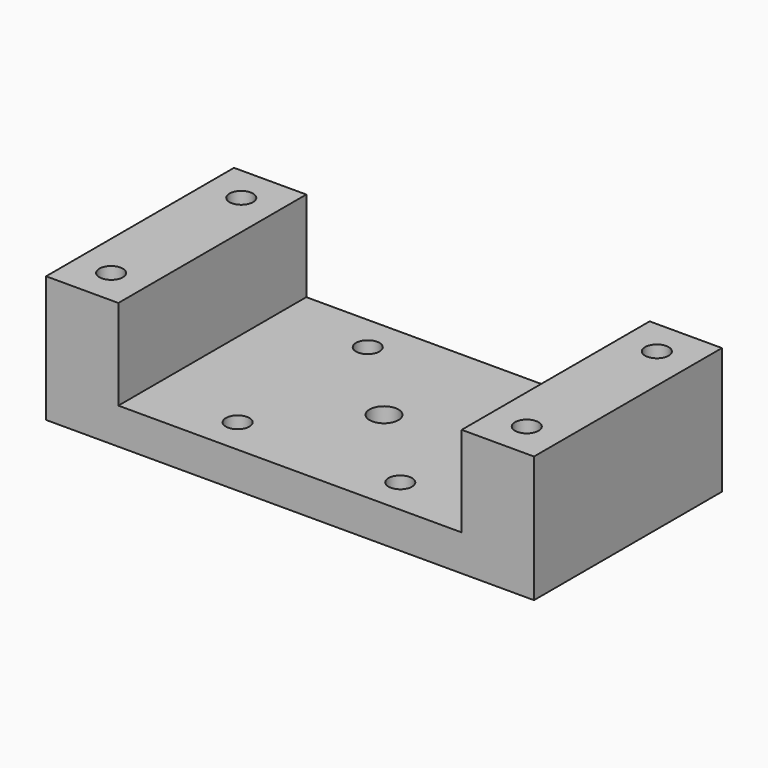
from build123d import *

# Parameters (mm, degrees)
F0_W     = 135
F0_H     = 65
F0_R     = 3.25
F0_R_2   = 4
F1_DEPTH = 10
F2_W     = 20
F2_H     = 65
F2_R     = 3.25
F3_DEPTH = 25


with BuildPart() as f1:
    # F0 (on Top) → F1 (new body)
    with BuildSketch(Plane.XY):
        Rectangle(F0_W, F0_H)
        with Locations((-22.5, -22.5)):
            Circle(F0_R, mode=Mode.SUBTRACT)
        with Locations((22.5, -22.5)):
            Circle(F0_R, mode=Mode.SUBTRACT)
        with Locations((-22.5, 22.5)):
            Circle(F0_R, mode=Mode.SUBTRACT)
        Circle(F0_R_2, mode=Mode.SUBTRACT)
        with Locations((22.5, 22.5)):
            Circle(F0_R, mode=Mode.SUBTRACT)
    extrude(amount=F1_DEPTH)

    # F2 (on face) → F3 (join)
    with BuildSketch(Plane.XY.offset(10)):
        with Locations((57.5, 0)):
            Rectangle(F2_W, F2_H)
        with Locations((57.5, -22.5)):
            Circle(F2_R, mode=Mode.SUBTRACT)
        with Locations((57.5, 22.5)):
            Circle(F2_R, mode=Mode.SUBTRACT)
        with Locations((-57.5, 0)):
            Rectangle(F2_W, F2_H)
        with Locations((-57.5, -22.5)):
            Circle(F2_R, mode=Mode.SUBTRACT)
        with Locations((-57.5, 22.5)):
            Circle(F2_R, mode=Mode.SUBTRACT)
    extrude(amount=F3_DEPTH)


solid = f1.part
